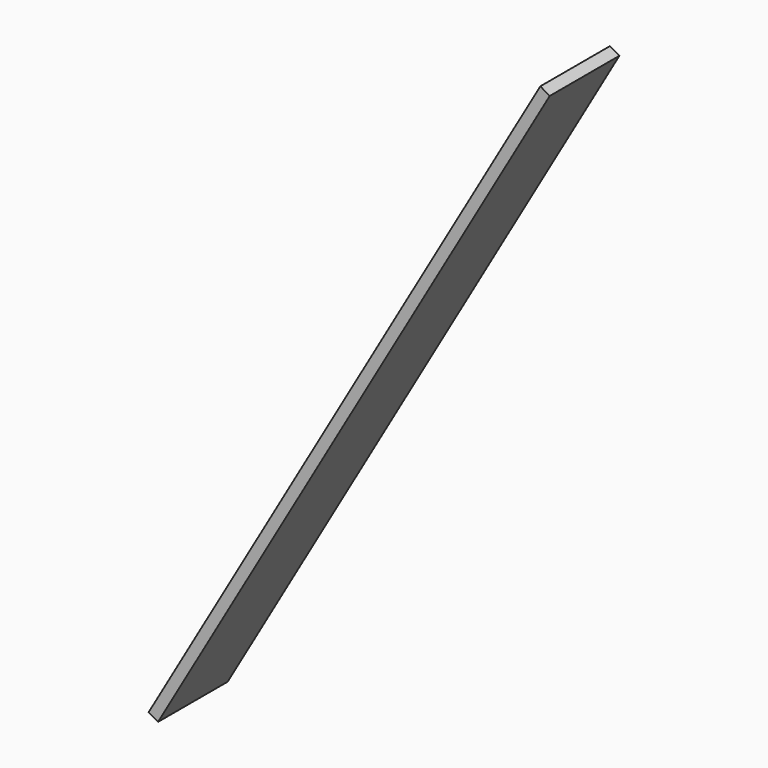
from build123d import *

# Parameters (mm, degrees)
F0_W     = 50.8
F0_H     = 457.2
F1_DEPTH = 6.35
F2_ANGLE = 30


with BuildPart() as f1:
    # F0 (on Right) → F1 (new body)
    with BuildSketch(Plane.YZ):
        with Locations((25.4, 228.6)):
            Rectangle(F0_W, F0_H)
    extrude(amount=F1_DEPTH)


with BuildPart() as f1_1:
    # F2: moved
    add(f1.part.rotate(Axis((0, 25.4, 0), (0, 1, 0)), F2_ANGLE))


solid = f1_1.part
